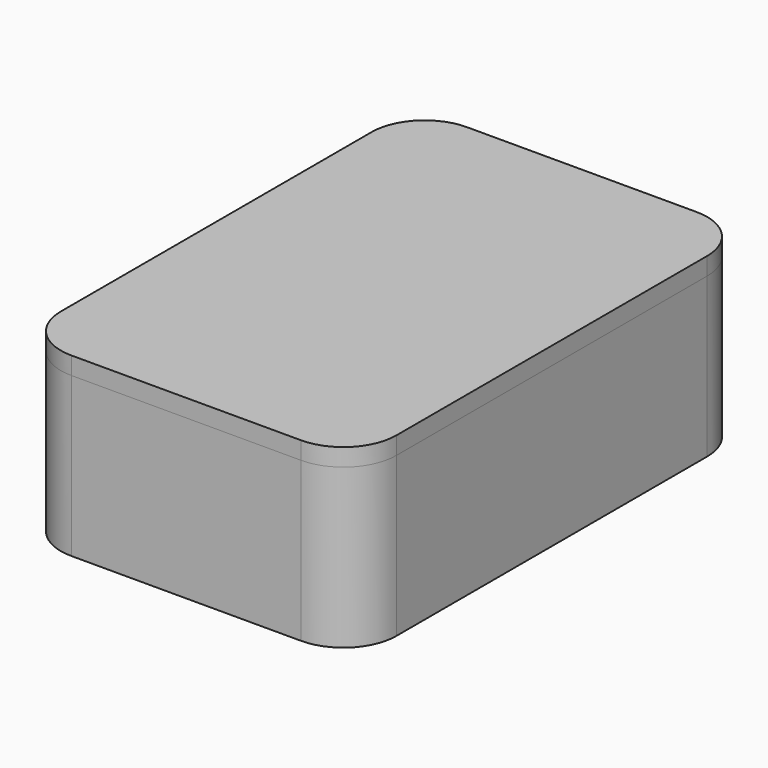
from build123d import *

# Parameters (mm, degrees)
F1_DEPTH = 3.175
F2_DEPTH = 28.575
F3_START = 28.575
F3_DEPTH = 3.175
F4_W     = 76.2
F4_H     = 19.05
F5_DEPTH = 50.8


with BuildPart() as f1:
    # F0 (on Top) → F1 (new body)
    with BuildSketch(Plane.XY):
        with BuildLine():
            Line((-20.6375, -44.45), (20.6375, -44.45))
            ThreePointArc((20.6375, -44.45), (27.3726920908, -41.6601920908), (30.1625, -34.925))
            Line((30.1625, -34.925), (30.1625, 34.925))
            ThreePointArc((30.1625, 34.925), (27.3726920908, 41.6601920908), (20.6375, 44.45))
            Line((20.6375, 44.45), (-20.6375, 44.45))
            ThreePointArc((-20.6375, 44.45), (-27.3726920908, 41.6601920908), (-30.1625, 34.925))
            Line((-30.1625, 34.925), (-30.1625, -34.925))
            ThreePointArc((-30.1625, -34.925), (-27.3726920908, -41.6601920908), (-20.6375, -44.45))
        make_face()
        with BuildLine():
            ThreePointArc((26.9875, -34.925), (25.1276280605, -39.4151280605), (20.6375, -41.275))
            Line((20.6375, -41.275), (-20.6375, -41.275))
            ThreePointArc((-20.6375, -41.275), (-25.1276280605, -39.4151280605), (-26.9875, -34.925))
            Line((-26.9875, -34.925), (-26.9875, 34.925))
            ThreePointArc((-26.9875, 34.925), (-25.1276280605, 39.4151280605), (-20.6375, 41.275))
            Line((-20.6375, 41.275), (20.6375, 41.275))
            ThreePointArc((20.6375, 41.275), (25.1276280605, 39.4151280605), (26.9875, 34.925))
            Line((26.9875, 34.925), (26.9875, -34.925))
        make_face(mode=Mode.SUBTRACT)
        with BuildLine():
            Line((-20.6375, -41.275), (20.6375, -41.275))
            ThreePointArc((20.6375, -41.275), (25.1276280605, -39.4151280605), (26.9875, -34.925))
            Line((26.9875, -34.925), (26.9875, 34.925))
            ThreePointArc((26.9875, 34.925), (25.1276280605, 39.4151280605), (20.6375, 41.275))
            Line((20.6375, 41.275), (-20.6375, 41.275))
            ThreePointArc((-20.6375, 41.275), (-25.1276280605, 39.4151280605), (-26.9875, 34.925))
            Line((-26.9875, 34.925), (-26.9875, -34.925))
            ThreePointArc((-26.9875, -34.925), (-25.1276280605, -39.4151280605), (-20.6375, -41.275))
        make_face()
    extrude(amount=F1_DEPTH)

    # F0 (on Top) → F2 (join)
    with BuildSketch(Plane.XY):
        with BuildLine():
            Line((-20.6375, -44.45), (20.6375, -44.45))
            ThreePointArc((20.6375, -44.45), (27.3726920908, -41.6601920908), (30.1625, -34.925))
            Line((30.1625, -34.925), (30.1625, 34.925))
            ThreePointArc((30.1625, 34.925), (27.3726920908, 41.6601920908), (20.6375, 44.45))
            Line((20.6375, 44.45), (-20.6375, 44.45))
            ThreePointArc((-20.6375, 44.45), (-27.3726920908, 41.6601920908), (-30.1625, 34.925))
            Line((-30.1625, 34.925), (-30.1625, -34.925))
            ThreePointArc((-30.1625, -34.925), (-27.3726920908, -41.6601920908), (-20.6375, -44.45))
        make_face()
        with BuildLine():
            ThreePointArc((26.9875, -34.925), (25.1276280605, -39.4151280605), (20.6375, -41.275))
            Line((20.6375, -41.275), (-20.6375, -41.275))
            ThreePointArc((-20.6375, -41.275), (-25.1276280605, -39.4151280605), (-26.9875, -34.925))
            Line((-26.9875, -34.925), (-26.9875, 34.925))
            ThreePointArc((-26.9875, 34.925), (-25.1276280605, 39.4151280605), (-20.6375, 41.275))
            Line((-20.6375, 41.275), (20.6375, 41.275))
            ThreePointArc((20.6375, 41.275), (25.1276280605, 39.4151280605), (26.9875, 34.925))
            Line((26.9875, 34.925), (26.9875, -34.925))
        make_face(mode=Mode.SUBTRACT)
    extrude(amount=F2_DEPTH)

    # F4 (on Right) → F5 (cut)
    with BuildSketch(Plane.YZ):
        with Locations((0, 15.875)):
            Rectangle(F4_W, F4_H)
    extrude(amount=-F5_DEPTH, mode=Mode.SUBTRACT)


with BuildPart() as f3:
    # F0 (on Top) → F3 (new body)
    with BuildSketch(Plane.XY.offset(F3_START)):
        with BuildLine():
            Line((-20.6375, -44.45), (20.6375, -44.45))
            ThreePointArc((20.6375, -44.45), (27.3726920908, -41.6601920908), (30.1625, -34.925))
            Line((30.1625, -34.925), (30.1625, 34.925))
            ThreePointArc((30.1625, 34.925), (27.3726920908, 41.6601920908), (20.6375, 44.45))
            Line((20.6375, 44.45), (-20.6375, 44.45))
            ThreePointArc((-20.6375, 44.45), (-27.3726920908, 41.6601920908), (-30.1625, 34.925))
            Line((-30.1625, 34.925), (-30.1625, -34.925))
            ThreePointArc((-30.1625, -34.925), (-27.3726920908, -41.6601920908), (-20.6375, -44.45))
        make_face()
        with BuildLine():
            ThreePointArc((26.9875, -34.925), (25.1276280605, -39.4151280605), (20.6375, -41.275))
            Line((20.6375, -41.275), (-20.6375, -41.275))
            ThreePointArc((-20.6375, -41.275), (-25.1276280605, -39.4151280605), (-26.9875, -34.925))
            Line((-26.9875, -34.925), (-26.9875, 34.925))
            ThreePointArc((-26.9875, 34.925), (-25.1276280605, 39.4151280605), (-20.6375, 41.275))
            Line((-20.6375, 41.275), (20.6375, 41.275))
            ThreePointArc((20.6375, 41.275), (25.1276280605, 39.4151280605), (26.9875, 34.925))
            Line((26.9875, 34.925), (26.9875, -34.925))
        make_face(mode=Mode.SUBTRACT)
        with BuildLine():
            Line((-20.6375, -41.275), (20.6375, -41.275))
            ThreePointArc((20.6375, -41.275), (25.1276280605, -39.4151280605), (26.9875, -34.925))
            Line((26.9875, -34.925), (26.9875, 34.925))
            ThreePointArc((26.9875, 34.925), (25.1276280605, 39.4151280605), (20.6375, 41.275))
            Line((20.6375, 41.275), (-20.6375, 41.275))
            ThreePointArc((-20.6375, 41.275), (-25.1276280605, 39.4151280605), (-26.9875, 34.925))
            Line((-26.9875, 34.925), (-26.9875, -34.925))
            ThreePointArc((-26.9875, -34.925), (-25.1276280605, -39.4151280605), (-20.6375, -41.275))
        make_face()
    extrude(amount=F3_DEPTH)


solid = Compound([f1.part, f3.part])
